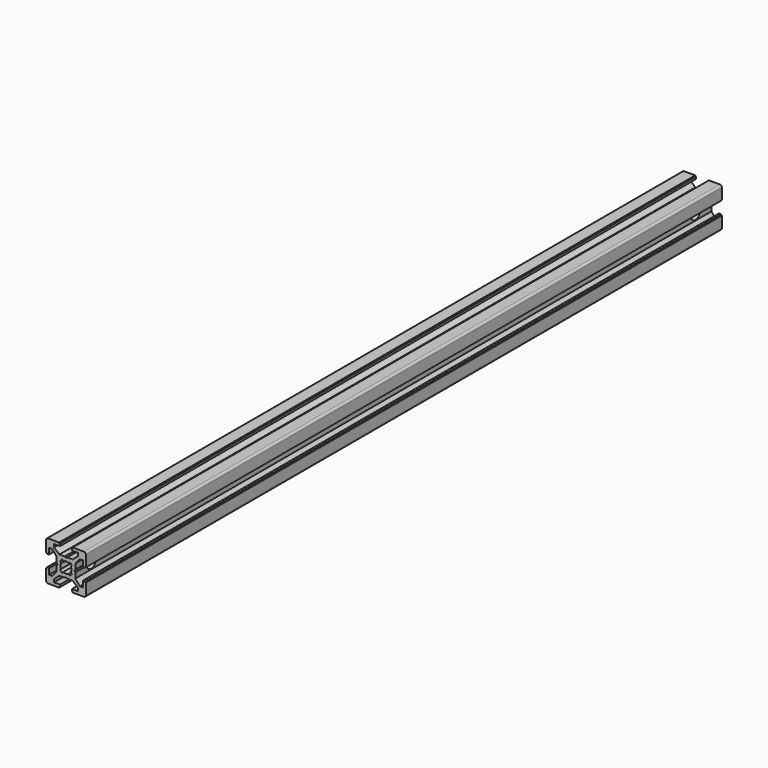
from build123d import *

# Parameters (mm, degrees)
PAD_DEPTH          = 400
POCKET_DEPTH       = 480
POLARPATTERN_COUNT = 4
POCKET001_DEPTH    = 400
SKETCH003_R        = 3
POCKET002_DEPTH    = 20
SKETCH004_R        = 5
POCKET003_DEPTH    = 3
POCKET004_DEPTH    = 3


with BuildPart() as pocket002:
    # Sketch → Pad (new body)
    with BuildSketch(Plane.XZ):
        with BuildLine():
            Line((-9, 10), (9, 10))
            ThreePointArc((10, 9), (9.707107, 9.707107), (9, 10))
            Line((10, 9), (10, -9))
            ThreePointArc((9, -10), (9.707107, -9.707107), (10, -9))
            Line((9, -10), (-9, -10))
            ThreePointArc((-10, -9), (-9.707107, -9.707107), (-9, -10))
            Line((-10, -9), (-10, 9))
            ThreePointArc((-9, 10), (-9.707107, 9.707107), (-10, 9))
        make_face()
    extrude(amount=PAD_DEPTH)

    # Sketch001 (on Face10 of Pad) → Pocket (cut)
    with BuildSketch(Plane.XZ.offset(400)):
        Polygon((-3.4, 10), (-3.4, 9.6), (-3, 9.6), (-3, 8.5), (-6, 8.5), (-6, 7), (-3.35, 4.7), (-0.65, 4.7), (0, 4.3), (0.65, 4.7), (3.35, 4.7), (6, 7), (6, 8.5), (3, 8.5), (3, 9.6), (3.4, 9.6), (3.4, 10), align=None)
    pocket = extrude(amount=-POCKET_DEPTH, mode=Mode.SUBTRACT)

    # PolarPattern: Pocket ×4 about axis
    polarpattern_axis = Axis((0, -400, 0), (0, -1, 0))
    for i in range(1, POLARPATTERN_COUNT):
        add(pocket.rotate(polarpattern_axis, i * 360 / POLARPATTERN_COUNT), mode=Mode.SUBTRACT)

    # Sketch002 (on Face4 of PolarPattern) → Pocket001 (cut)
    with BuildSketch(Plane.XZ.offset(400)):
        with BuildLine():
            ThreePointArc((1.340499, 2.401159), (0, 2.75), (-1.340499, 2.401159))
            Line((-1.944544, 3.005204), (-1.340499, 2.401159))
            Line((-3.005204, 1.944544), (-1.944544, 3.005204))
            Line((-2.401159, 1.340499), (-3.005204, 1.944544))
            ThreePointArc((-2.401159, 1.340499), (-2.75, 0), (-2.401159, -1.340499))
            Line((-3.005204, -1.944544), (-2.401159, -1.340499))
            Line((-1.944544, -3.005204), (-3.005204, -1.944544))
            Line((-1.340499, -2.401159), (-1.944544, -3.005204))
            ThreePointArc((-1.340499, -2.401159), (0, -2.75), (1.340499, -2.401159))
            Line((1.944544, -3.005204), (1.340499, -2.401159))
            Line((3.005204, -1.944544), (1.944544, -3.005204))
            Line((2.401159, -1.340499), (3.005204, -1.944544))
            ThreePointArc((2.401159, -1.340499), (2.75, 0), (2.401159, 1.340499))
            Line((2.401159, 1.340499), (3.005204, 1.944544))
            Line((3.005204, 1.944544), (1.944544, 3.005204))
            Line((1.944544, 3.005204), (1.340499, 2.401159))
        make_face()
    extrude(amount=-POCKET001_DEPTH, mode=Mode.SUBTRACT)

    # Sketch003 (on Face44 of Pocket001) → Pocket002 (cut)
    with BuildSketch(Plane(origin=(10, 0, 0), x_dir=(0, 0, 1), z_dir=(1, 0, 0))):
        with Locations((0, 10)):
            Circle(SKETCH003_R)
        with Locations((0, 390)):
            Circle(SKETCH003_R)
    extrude(amount=-POCKET002_DEPTH, mode=Mode.SUBTRACT)


with BuildPart() as pocket003:
    # Pocket003 base: copy of Pocket002
    add(pocket002.part)

    # Sketch004 (on Face37 of Pocket002) → Pocket003 (cut)
    with BuildSketch(Plane(origin=(-10, 0, 0), x_dir=(0, 0, -1), z_dir=(-1, 0, 0))):
        with Locations((0, 10)):
            Circle(SKETCH004_R)
        with Locations((0, 390)):
            Circle(SKETCH004_R)
    extrude(amount=-POCKET003_DEPTH, mode=Mode.SUBTRACT)


with BuildPart() as pocket004:
    # Pocket004 base: copy of Pocket002
    add(pocket002.part)

    # Sketch004 (on Face37 of Pocket002) → Pocket004 (cut)
    with BuildSketch(Plane(origin=(-10, 0, 0), x_dir=(0, 0, -1), z_dir=(-1, 0, 0))):
        with Locations((0, 10)):
            Circle(SKETCH004_R)
        with Locations((0, 390)):
            Circle(SKETCH004_R)
    extrude(amount=-POCKET004_DEPTH, mode=Mode.SUBTRACT)


solid = Compound([pocket003.part, pocket004.part])
